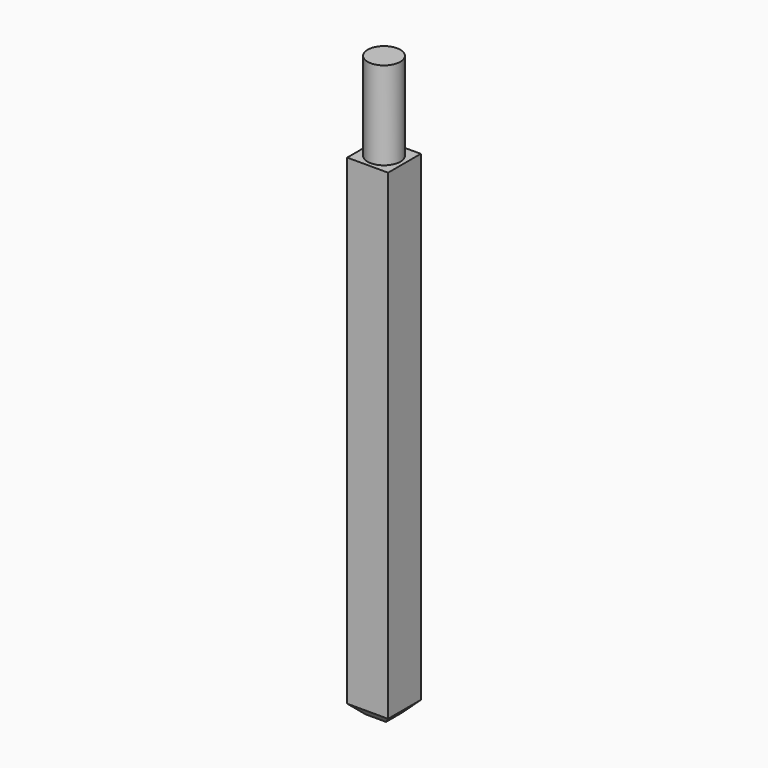
from build123d import *

# Parameters (mm, degrees)
F0_W     = 1
F0_H     = 1
F1_DEPTH = 12
F2_R     = 0.4
F3_DEPTH = 2.15
F4_SIZE  = 0.25


with BuildPart() as f1:
    # F0 (on Top) → F1 (new body)
    with BuildSketch(Plane.XY):
        with Locations((0.5, 0.5)):
            Rectangle(F0_W, F0_H)
    extrude(amount=F1_DEPTH)

    # F2 (on face) → F3 (join)
    with BuildSketch(Plane.XY.offset(12)):
        with Locations((0.5, 0.5)):
            Circle(F2_R)
    extrude(amount=F3_DEPTH)

    # F4
    f4_edges = [f1.edges().sort_by_distance(p)[0] for p in [
        (0.5, 0, 0),
        (0, 0.5, 0),
        (1, 0.5, 0),
        (0.5, 1, 0),
    ]]
    chamfer(f4_edges, length=F4_SIZE)


solid = f1.part
